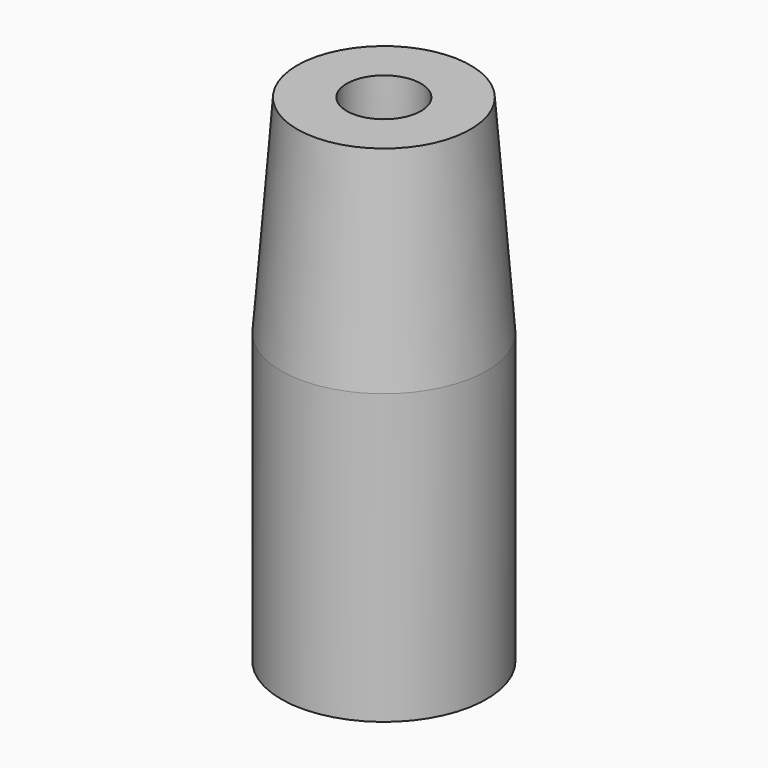
from build123d import *


with BuildPart() as part:
    # Sketch → Revolution (revolve)
    with BuildSketch(Plane.XZ):
        Polygon((-24.9, 34.109982), (-21, 84.389236), (-9, 84.389236), (-9.9, 34.389236), (-19.9, 24.109982), (-20, -35.890018), (-24.9, -35.890018), align=None)
    revolve(axis=Axis((0, 0, 0), (0, 0, 1)))


solid = part.part
